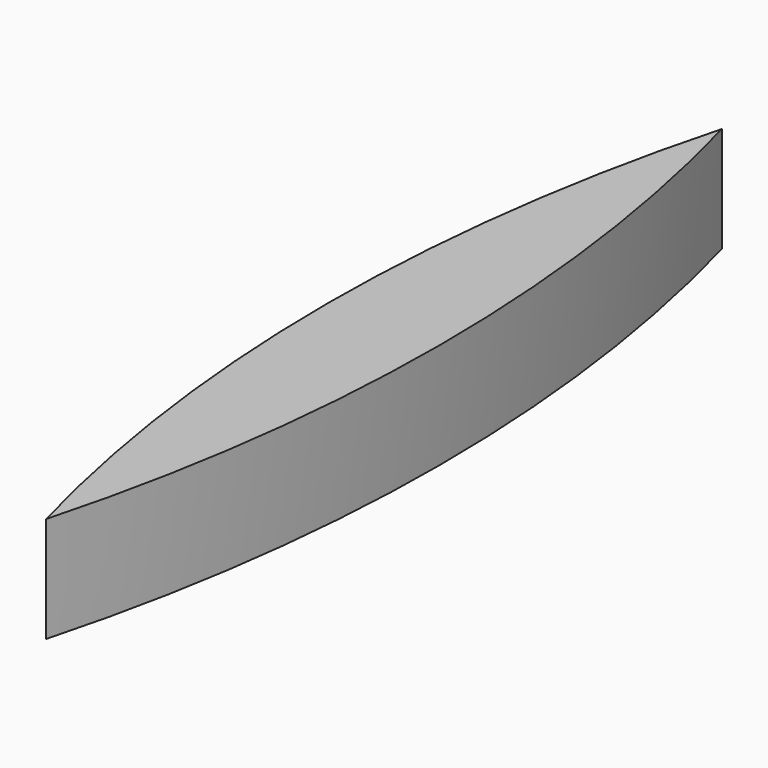
from build123d import *

# Parameters (mm, degrees)
F1_DEPTH = 150


with BuildPart() as f1:
    # F0 (on Top) → F1 (new body)
    with BuildSketch(Plane.XY):
        with BuildLine():
            ThreePointArc((80, 0), (59.9118925632, 302.6549190084), (0, 600))
            Line((0, 600), (0, 0))
            Line((0, 0), (80, 0))
        make_face()
    extrude(amount=F1_DEPTH)

    # F2: F1 across face


with BuildPart() as f1_1:
    add(f1.part)
    add(f1.part.mirror(Plane(origin=(0, 300, 75), x_dir=(0, -1, 0), z_dir=(-1, 0, 0))))

    # F3: F1 across plane


with BuildPart() as f1_2:
    add(f1_1.part)
    add(f1_1.part.mirror(Plane.XZ))


solid = f1_2.part
